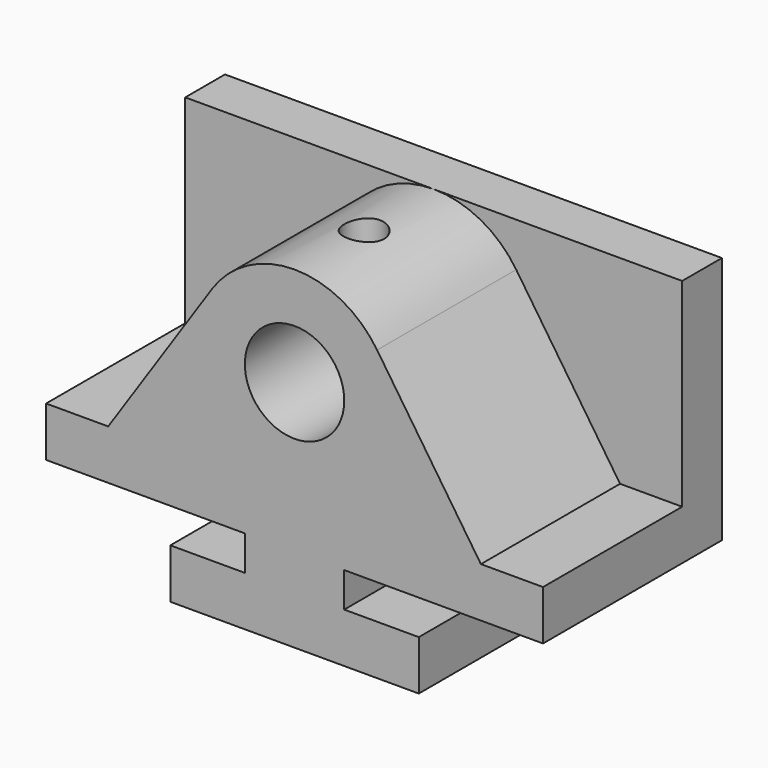
from build123d import *

# Parameters (mm, degrees)
F0_R     = 12.7
F2_DEPTH = 57.15
F1_W     = 127
F1_H     = 50.8
F1_R     = 12.7
F3_DEPTH = 12.7
F4_R     = 5.08
F5_DEPTH = 25.4


with BuildPart() as f2:
    # F0 (on Front) → F2 (new body)
    with BuildSketch(Plane.XZ):
        with BuildLine():
            Line((-31.75, 0), (0, 0))
            Line((0, 0), (31.75, 0))
            Line((31.75, 0), (31.75, 12.7))
            Line((31.75, 12.7), (12.7, 12.7))
            Line((12.7, 12.7), (12.7, 21.59))
            Line((12.7, 21.59), (63.5, 21.59))
            Line((63.5, 21.59), (63.5, 34.29))
            Line((63.5, 34.29), (47.625, 34.29))
            Line((47.625, 34.29), (21.093426, 73.840173))
            ThreePointArc((21.093426, 73.840173), (0, 85.09), (-21.093426, 73.840173))
            Line((-21.093426, 73.840173), (-47.625, 34.29))
            Line((-47.625, 34.29), (-63.5, 34.29))
            Line((-63.5, 34.29), (-63.5, 21.59))
            Line((-63.5, 21.59), (-12.7, 21.59))
            Line((-12.7, 21.59), (-12.7, 12.7))
            Line((-12.7, 12.7), (-31.75, 12.7))
            Line((-31.75, 12.7), (-31.75, 0))
        make_face()
        with Locations((0, 59.69)):
            Circle(F0_R, mode=Mode.SUBTRACT)
    extrude(amount=F2_DEPTH)

    # F1 (on Front) → F3 (join)
    with BuildSketch(Plane.XZ):
        with Locations((0, 59.69)):
            Rectangle(F1_W, F1_H)
        with Locations((0, 59.69)):
            Circle(F1_R, mode=Mode.SUBTRACT)
    extrude(amount=F3_DEPTH)

    # F4 (on face) → F5 (cut)
    with BuildSketch(Plane.XY.offset(85.09)):
        with Locations((0, -34.925)):
            Circle(F4_R)
    extrude(amount=-F5_DEPTH, mode=Mode.SUBTRACT)


solid = f2.part
